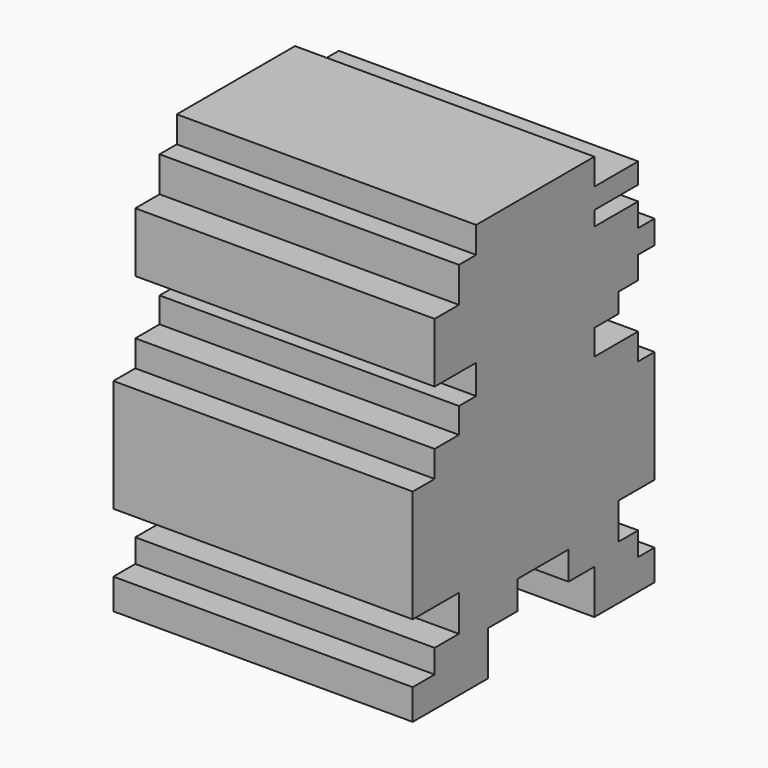
from build123d import *

# Parameters (mm, degrees)
F0_W     = 25.4
F0_H     = 25.4
F1_DEPTH = 12.7
F3_DEPTH = 25.4


with BuildPart() as f1:
    # F0 (on Right) → F1 (new body)
    with BuildSketch(Plane.YZ):
        with Locations((12.7, 12.7)):
            Rectangle(F0_W, F0_H)
    extrude(amount=F1_DEPTH)

    # F2 (on face) → F3 (cut)
    with BuildSketch(Plane.YZ.offset(12.7)):
        Polygon((20.01168, 1.297225), (20.01168, 0), (25.4, 0), (25.4, 25.4), (0, 25.4), (0, 0), (7.185232, 0), (7.185232, 1.297225), (8.347499, 1.297225), (8.347499, 2.293454), (9.634295, 2.293454), (9.634295, 3.829307), (7.185232, 3.829307), (7.185232, 8.602904), (8.347499, 8.602904), (8.347499, 9.723661), (9.634295, 9.723661), (9.634295, 10.80291), (10.547505, 10.80291), (10.547505, 12.048196), (8.347499, 12.048196), (8.347499, 14.580278), (9.634295, 14.580278), (9.634295, 15.202921), (9.634295, 16.074622), (10.547505, 16.074622), (10.547505, 17.195379), (16.815444, 17.195379), (16.815444, 16.074622), (19.139979, 16.074622), (19.139979, 15.202921), (16.815444, 15.202921), (16.815444, 14.580278), (19.139979, 14.580278), (19.139979, 13.584048), (20.01168, 13.584048), (20.01168, 12.58782), (19.139979, 12.58782), (19.139979, 11.633101), (18.102242, 11.633101), (18.102242, 10.80291), (16.815444, 10.80291), (16.815444, 9.723661), (19.139979, 9.723661), (19.139979, 8.602904), (20.01168, 8.602904), (20.01168, 3.829307), (18.102242, 3.829307), (18.102242, 2.293454), (19.139979, 2.293454), (19.139979, 1.297225), align=None)
        Polygon((11.170148, 0), (16.815444, 0), (16.815444, 1.878359), (15.44563, 1.878359), (15.44563, 3.082135), (12.74751, 3.082135), (12.74751, 1.878359), (11.170148, 1.878359), align=None)
    extrude(amount=-F3_DEPTH, mode=Mode.SUBTRACT)


solid = f1.part
